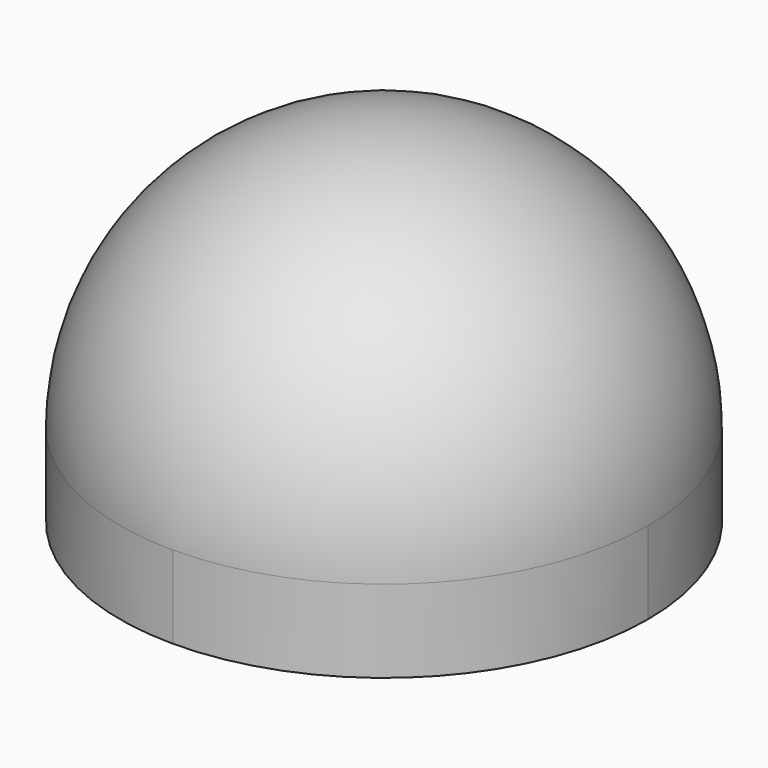
from build123d import *

# Parameters (mm, degrees)
F1_DEPTH = 10
F2_ANGLE = 180


with BuildPart() as f1:
    # F0 (on Top) → F1 (new body)
    with BuildSketch(Plane.XY):
        with BuildLine():
            Line((0, -32), (0, 32))
            ThreePointArc((0, 32), (-32, 0), (0, -32))
        make_face()
        with BuildLine():
            ThreePointArc((0, -32), (22.627416998, -22.627416998), (32, 0))
            ThreePointArc((32, 0), (22.627416998, 22.627416998), (0, 32))
            Line((0, 32), (0, -32))
        make_face()
    extrude(amount=-F1_DEPTH)


with BuildPart() as f2:
    # F0 (on Top) → F2 (revolve)
    with BuildSketch(Plane.XY):
        with BuildLine():
            Line((0, -32), (0, 32))
            ThreePointArc((0, 32), (-32, 0), (0, -32))
        make_face()
    revolve(axis=Axis((0, 0, 0), (0, 1, 0)), revolution_arc=F2_ANGLE)


solid = Compound([f1.part, f2.part])
